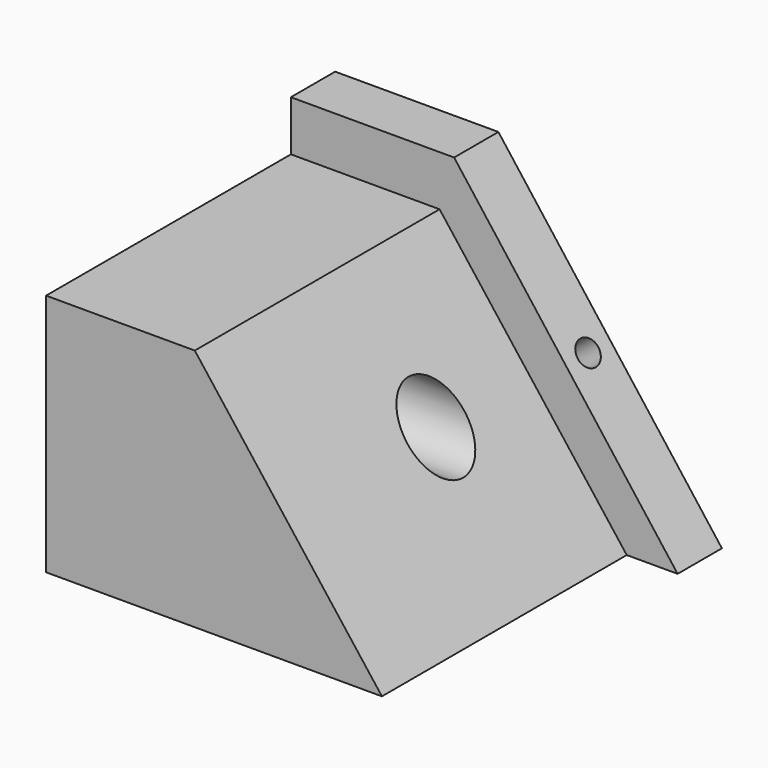
from build123d import *

# Parameters (mm, degrees)
F1_DEPTH = 78.3291
F2_R     = 7.7099954694
F3_DEPTH = 68.99092
F5_DEPTH = 11.99651
F6_R     = 2.7645751725
F7_DEPTH = 66.7321124816


with BuildPart() as f1:
    # F0 (on Front) → F1 (new body)
    with BuildSketch(Plane.XZ):
        Polygon((-72.8069469333, 0), (0, 0), (-40.571808815, 52.7989305556), (-72.8069469333, 52.7989305556), align=None)
    extrude(amount=F1_DEPTH)

    # F2 (on face) → F3 (cut)
    with BuildSketch(Plane(origin=(-72.8069469333, 0, 0), x_dir=(0, -1, 0), z_dir=(-1, 0, 0))):
        with Locations((37.1266901493, 27.6962798089)):
            Circle(F2_R)
    extrude(amount=-F3_DEPTH, mode=Mode.SUBTRACT)

    # F4 (on face) → F5 (join)
    with BuildSketch(Plane(origin=(0, 0, 0), x_dir=(-1, 0, 0), z_dir=(0, 1, 0))):
        Polygon((0, 0), (40.571808815, 52.7989305556), (72.8069469333, 52.7989305556), (72.8069469333, 63.7013316154), (37.4180935323, 63.7013316154), (-11.033478193, 0), align=None)
    extrude(amount=-F5_DEPTH)

    # F6 (on face) → F7 (cut, through all)
    with BuildSketch(Plane(origin=(6.9897594118, 0, 5.3164481949), x_dir=(0, 1, 0), z_dir=(0.7959300347, 0, 0.6053886188))):
        with Locations((-5.998255, 33.3373744617)):
            Circle(F6_R)
    extrude(amount=-F7_DEPTH, mode=Mode.SUBTRACT)


solid = f1.part
